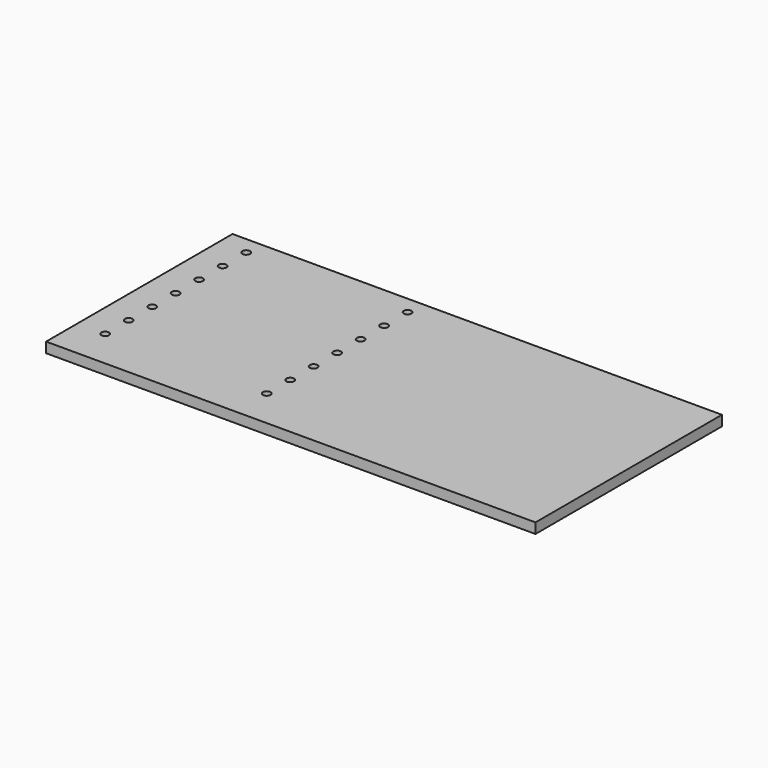
from build123d import *

# Parameters (mm, degrees)
F0_W     = 266.7
F0_H     = 127
F0_R     = 2.098114
F0_R_2   = 2.1
F0_R_3   = 2.098926
F0_R_4   = 2.097694
F0_R_5   = 2.099749
F0_R_6   = 2.103022
F0_R_7   = 2.100743
F0_R_8   = 2.11002
F1_DEPTH = 5.588


with BuildPart() as f1:
    # F0 (on Top) → F1 (new body)
    with BuildSketch(Plane.XY):
        with Locations((-45.169597, -53.914849)):
            Rectangle(F0_W, F0_H)
        with Locations((-163.320707, -96.142975)):
            Circle(F0_R, mode=Mode.SUBTRACT)
        with Locations((-75.317111, -96.143199)):
            Circle(F0_R_2, mode=Mode.SUBTRACT)
        with Locations((-163.321555, -80.144829)):
            Circle(F0_R_3, mode=Mode.SUBTRACT)
        with Locations((-163.313507, -64.140634)):
            Circle(F0_R_4, mode=Mode.SUBTRACT)
        with Locations((-75.317111, -80.143199)):
            Circle(F0_R_2, mode=Mode.SUBTRACT)
        with Locations((-75.317111, -64.143199)):
            Circle(F0_R_2, mode=Mode.SUBTRACT)
        with Locations((-163.313811, -48.145786)):
            Circle(F0_R_5, mode=Mode.SUBTRACT)
        with Locations((-163.325555, -32.154739)):
            Circle(F0_R_6, mode=Mode.SUBTRACT)
        with Locations((-75.317111, -48.143199)):
            Circle(F0_R_2, mode=Mode.SUBTRACT)
        with Locations((-75.317111, -32.142704)):
            Circle(F0_R_2, mode=Mode.SUBTRACT)
        with Locations((-163.312822, -16.139877)):
            Circle(F0_R_7, mode=Mode.SUBTRACT)
        with Locations((-163.313285, -0.116292)):
            Circle(F0_R_8, mode=Mode.SUBTRACT)
        with Locations((-75.317111, -16.142704)):
            Circle(F0_R_2, mode=Mode.SUBTRACT)
        with Locations((-75.317111, -0.142704)):
            Circle(F0_R_2, mode=Mode.SUBTRACT)
    extrude(amount=F1_DEPTH)


solid = f1.part
